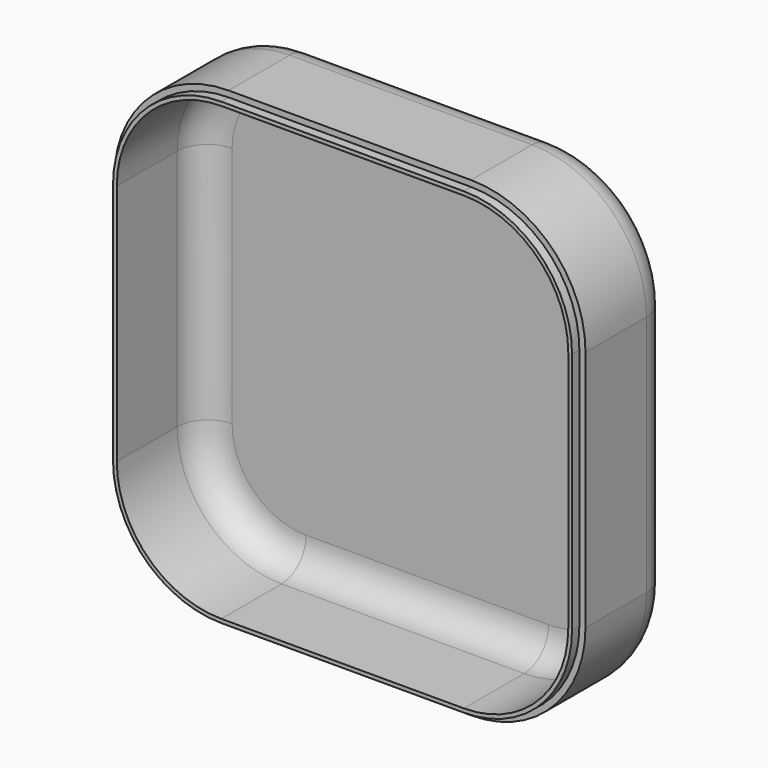
from build123d import *

# Parameters (mm, degrees)
F1_DEPTH = 1.3
F2_DEPTH = 14
F4_DEPTH = 1.2
F5_R     = 4
F6_R     = 4


with BuildPart() as f1:
    # F0 (on Front) → F1 (new body)
    with BuildSketch(Plane.XZ):
        with BuildLine():
            Line((15.9, 30.9), (-15.9, 30.9))
            ThreePointArc((-15.9, 30.9), (-26.506602, 26.506602), (-30.9, 15.9))
            Line((-30.9, 15.9), (-30.9, -15.9))
            ThreePointArc((-30.9, -15.9), (-26.506602, -26.506602), (-15.9, -30.9))
            Line((-15.9, -30.9), (15.9, -30.9))
            ThreePointArc((15.9, -30.9), (26.506602, -26.506602), (30.9, -15.9))
            Line((30.9, -15.9), (30.9, 15.9))
            ThreePointArc((30.9, 15.9), (26.506602, 26.506602), (15.9, 30.9))
        make_face()
        with BuildLine():
            ThreePointArc((-29.6, 15.9), (-25.587363, 25.587363), (-15.9, 29.6))
            Line((-15.9, 29.6), (15.9, 29.6))
            ThreePointArc((15.9, 29.6), (25.587363, 25.587363), (29.6, 15.9))
            Line((29.6, 15.9), (29.6, -15.9))
            ThreePointArc((29.6, -15.9), (25.587363, -25.587363), (15.9, -29.6))
            Line((15.9, -29.6), (-15.9, -29.6))
            ThreePointArc((-15.9, -29.6), (-25.587363, -25.587363), (-29.6, -15.9))
            Line((-29.6, -15.9), (-29.6, 15.9))
        make_face(mode=Mode.SUBTRACT)
        with BuildLine():
            Line((15.9, 29.6), (-15.9, 29.6))
            ThreePointArc((-15.9, 29.6), (-25.587363, 25.587363), (-29.6, 15.9))
            Line((-29.6, 15.9), (-29.6, -15.9))
            ThreePointArc((-29.6, -15.9), (-25.587363, -25.587363), (-15.9, -29.6))
            Line((-15.9, -29.6), (15.9, -29.6))
            ThreePointArc((15.9, -29.6), (25.587363, -25.587363), (29.6, -15.9))
            Line((29.6, -15.9), (29.6, 15.9))
            ThreePointArc((29.6, 15.9), (25.587363, 25.587363), (15.9, 29.6))
        make_face()
    extrude(amount=F1_DEPTH)

    # F0 (on Front) → F2 (join)
    with BuildSketch(Plane.XZ):
        with BuildLine():
            Line((15.9, 30.9), (-15.9, 30.9))
            ThreePointArc((-15.9, 30.9), (-26.506602, 26.506602), (-30.9, 15.9))
            Line((-30.9, 15.9), (-30.9, -15.9))
            ThreePointArc((-30.9, -15.9), (-26.506602, -26.506602), (-15.9, -30.9))
            Line((-15.9, -30.9), (15.9, -30.9))
            ThreePointArc((15.9, -30.9), (26.506602, -26.506602), (30.9, -15.9))
            Line((30.9, -15.9), (30.9, 15.9))
            ThreePointArc((30.9, 15.9), (26.506602, 26.506602), (15.9, 30.9))
        make_face()
        with BuildLine():
            ThreePointArc((-29.6, 15.9), (-25.587363, 25.587363), (-15.9, 29.6))
            Line((-15.9, 29.6), (15.9, 29.6))
            ThreePointArc((15.9, 29.6), (25.587363, 25.587363), (29.6, 15.9))
            Line((29.6, 15.9), (29.6, -15.9))
            ThreePointArc((29.6, -15.9), (25.587363, -25.587363), (15.9, -29.6))
            Line((15.9, -29.6), (-15.9, -29.6))
            ThreePointArc((-15.9, -29.6), (-25.587363, -25.587363), (-29.6, -15.9))
            Line((-29.6, -15.9), (-29.6, 15.9))
        make_face(mode=Mode.SUBTRACT)
    extrude(amount=F2_DEPTH)

    # F3 (on face) → F4 (join)
    with BuildSketch(Plane.XZ.offset(14)):
        with BuildLine():
            Line((15.9, 30.1), (-15.9, 30.1))
            ThreePointArc((-15.9, 30.1), (-25.940916, 25.940916), (-30.1, 15.9))
            Line((-30.1, 15.9), (-30.1, -15.9))
            ThreePointArc((-30.1, -15.9), (-25.940916, -25.940916), (-15.9, -30.1))
            Line((-15.9, -30.1), (15.9, -30.1))
            ThreePointArc((15.9, -30.1), (25.940916, -25.940916), (30.1, -15.9))
            Line((30.1, -15.9), (30.1, 15.9))
            ThreePointArc((30.1, 15.9), (25.940916, 25.940916), (15.9, 30.1))
        make_face()
        with BuildLine():
            Line((15.9, -29.6), (-15.9, -29.6))
            ThreePointArc((-15.9, -29.6), (-25.587363, -25.587363), (-29.6, -15.9))
            Line((-29.6, -15.9), (-29.6, 15.9))
            ThreePointArc((-29.6, 15.9), (-25.587363, 25.587363), (-15.9, 29.6))
            Line((-15.9, 29.6), (15.9, 29.6))
            ThreePointArc((15.9, 29.6), (25.587363, 25.587363), (29.6, 15.9))
            Line((29.6, 15.9), (29.6, -15.9))
            ThreePointArc((29.6, -15.9), (25.587363, -25.587363), (15.9, -29.6))
        make_face(mode=Mode.SUBTRACT)
    extrude(amount=F4_DEPTH)

    # F5
    f5_edges = [f1.edges().sort_by_distance(p)[0] for p in [
        (-25.587363, -1.3, -25.587363),
    ]]
    fillet(f5_edges, radius=F5_R)

    # F6
    f6_edges = [f1.edges().sort_by_distance(p)[0] for p in [
        (0, 0, 30.9),
        (-26.506602, 0, 26.506602),
        (-30.9, 0, 0),
        (-26.506602, 0, -26.506602),
        (0, 0, -30.9),
        (26.506602, 0, -26.506602),
        (30.9, 0, 0),
        (26.506602, 0, 26.506602),
    ]]
    fillet(f6_edges, radius=F6_R)


solid = f1.part
